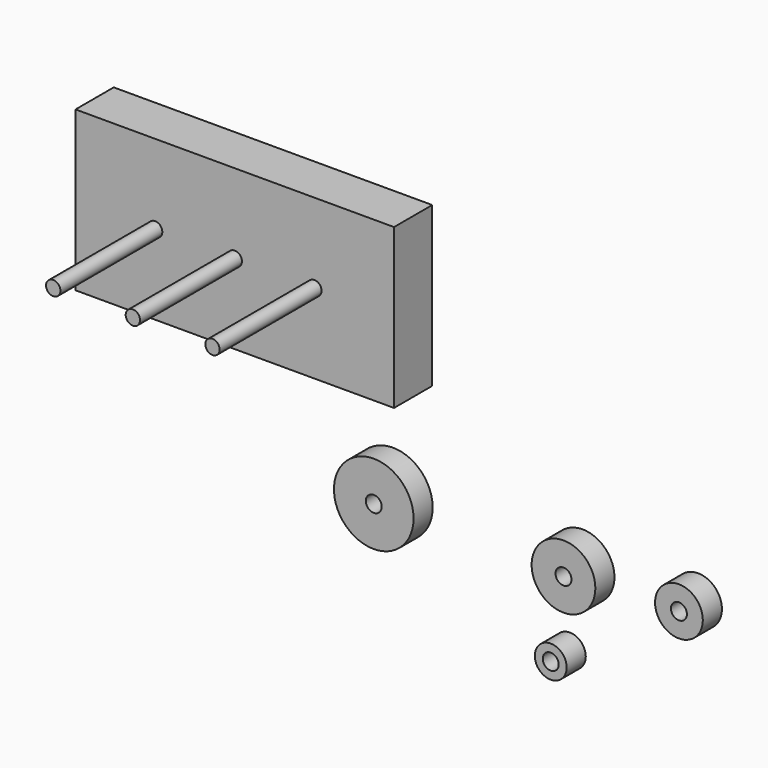
from build123d import *

# Parameters (mm, degrees)
F0_R     = 1.143
F1_DEPTH = 7.62
F0_R_2   = 3.81
F0_R_3   = 1.27
F0_R_4   = 5.08
F0_R_5   = 6.35
F0_R_6   = 2.54
F2_DEPTH = 3.81
F3_DEPTH = 27.94


with BuildPart() as f1:
    # F0 (on Front) → F1 (new body)
    with BuildSketch(Plane.XZ):
        Polygon((-44.518456, 42.456474), (-44.518456, 17.056474), (-31.818456, 17.056474), (-6.418456, 17.056474), (6.281544, 17.056474), (6.281544, 42.456474), align=None)
        with Locations((-31.818456, 29.756474)):
            Circle(F0_R, mode=Mode.SUBTRACT)
        with Locations((-19.118456, 29.756474)):
            Circle(F0_R, mode=Mode.SUBTRACT)
        with Locations((-6.418456, 29.756474)):
            Circle(F0_R, mode=Mode.SUBTRACT)
        with Locations((-6.418456, 29.756474)):
            Circle(F0_R)
        with Locations((-19.118456, 29.756474)):
            Circle(F0_R)
        with Locations((-31.818456, 29.756474)):
            Circle(F0_R)
    extrude(amount=F1_DEPTH)

    # F0 (on Front) → F3 (join)
    with BuildSketch(Plane.XZ):
        with Locations((-6.418456, 29.756474)):
            Circle(F0_R)
        with Locations((-19.118456, 29.756474)):
            Circle(F0_R)
        with Locations((-31.818456, 29.756474)):
            Circle(F0_R)
    extrude(amount=F3_DEPTH)


with BuildPart() as f2:
    # F0 (on Front) → F2 (new body)
    with BuildSketch(Plane.XZ):
        with Locations((48.674997, 0.735924)):
            Circle(F0_R_2)
        with Locations((48.674997, 0.735924)):
            Circle(F0_R_3, mode=Mode.SUBTRACT)
        with Locations((30.26519, -0.36083)):
            Circle(F0_R_4)
        with Locations((30.26519, -0.36083)):
            Circle(F0_R_3, mode=Mode.SUBTRACT)
        Circle(F0_R_5)
        Circle(F0_R_3, mode=Mode.SUBTRACT)
        with Locations((28.228359, -12.973508)):
            Circle(F0_R_6)
        with Locations((28.228359, -12.973508)):
            Circle(F0_R_3, mode=Mode.SUBTRACT)
    extrude(amount=F2_DEPTH)


solid = Compound([f1.part, f2.part])
